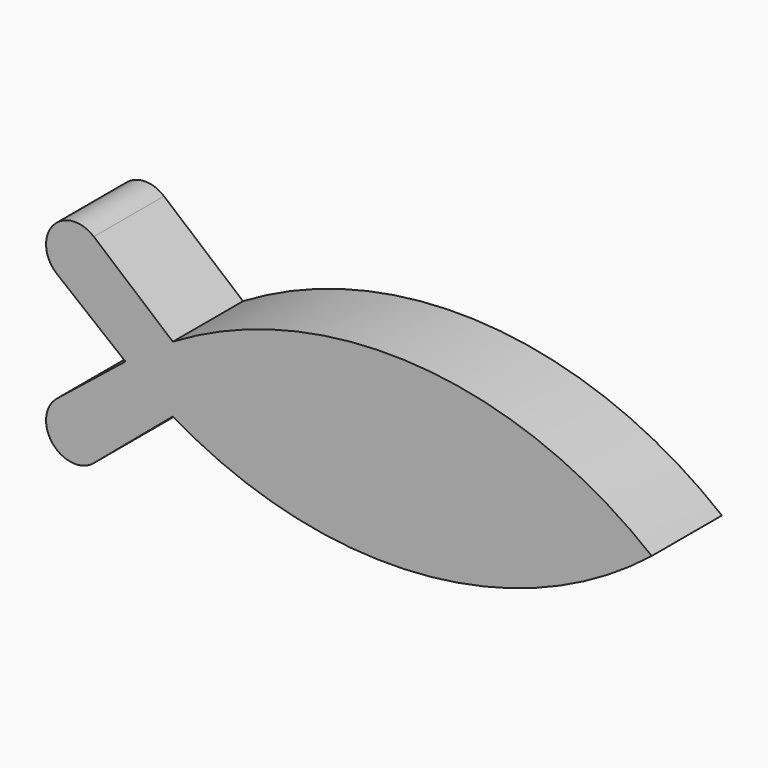
from build123d import *

# Parameters (mm, degrees)
F1_DEPTH = 25


with BuildPart() as f1:
    # F0 (on Front) → F1 (new body)
    with BuildSketch(Plane.XZ):
        with BuildLine():
            ThreePointArc((13.51559, -9.3768), (83.224894, -26.042828), (150, 0))
            ThreePointArc((150, 0), (83.224894, 26.042828), (13.51559, 9.3768))
            ThreePointArc((13.51559, 9.3768), (6.596932, 4.920265), (0, 0))
            ThreePointArc((0, 0), (6.596932, -4.920265), (13.51559, -9.3768))
        make_face()
        with BuildLine():
            ThreePointArc((0, 0), (6.596932, 4.920265), (13.51559, 9.3768))
            Line((13.51559, 9.3768), (-9.007419, 28.40198))
            ThreePointArc((-9.007419, 28.40198), (-20.734502, 27.33708), (-19.515619, 15.625))
            Line((-19.515619, 15.625), (0, 0))
        make_face()
        with BuildLine():
            Line((-9.007419, -28.40198), (13.51559, -9.3768))
            ThreePointArc((13.51559, -9.3768), (6.596932, -4.920265), (0, 0))
            Line((0, 0), (-19.515619, -15.625))
            ThreePointArc((-19.515619, -15.625), (-20.734502, -27.33708), (-9.007419, -28.40198))
        make_face()
    extrude(amount=-F1_DEPTH)


solid = f1.part
